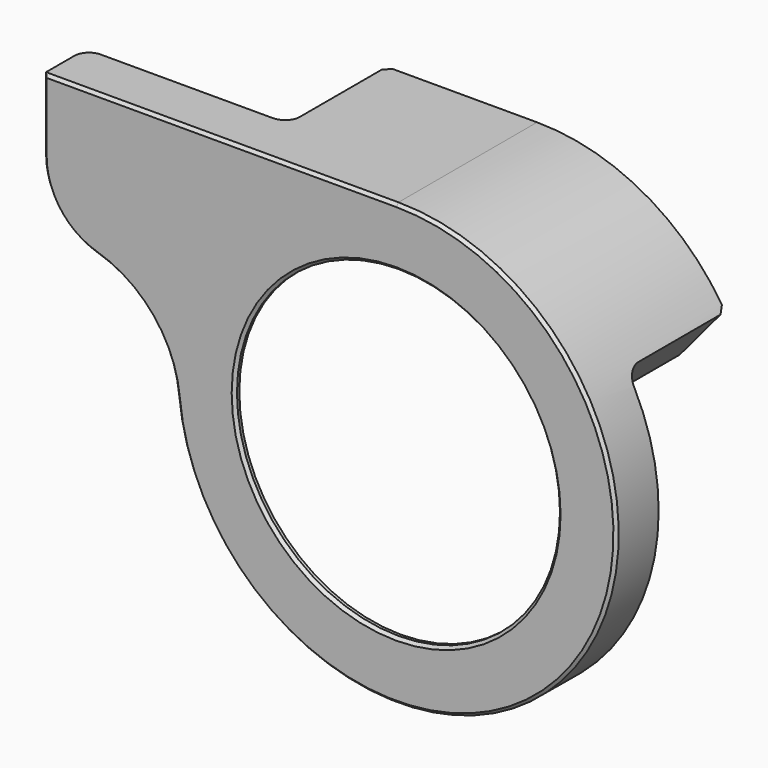
from build123d import *

# Parameters (mm, degrees)
SKETCH_R        = 55
PAD_DEPTH       = 40
PAD_DEPTH_BACK  = 20
POCKET_DEPTH    = 42
POCKET001_DEPTH = 16
SKETCH004_R     = 67.5
SKETCH004_R_2   = 58
POCKET002_DEPTH = 0.7
POCKET003_DEPTH = 0.7
SKETCH006_R     = 1.4
POCKET004_DEPTH = 35
SKETCH007_R     = 1.9
POCKET005_DEPTH = 20
FILLET_R        = 5
FILLET001_R     = 5
FILLET002_R     = 5
FILLET003_R     = 5
CHAMFER_SIZE    = 2
CHAMFER001_SIZE = 1


with BuildPart() as part:
    # Sketch → Pad (new body, two sides)
    with BuildSketch(Plane.XZ) as pad_sk:
        with BuildLine():
            Line((-120, 75), (0, 75))
            ThreePointArc((-74.66808, -7.048245), (55.468993, -50.479608), (0, 75))
            ThreePointArc((-74.66808, -7.048245), (-83.30852, 13.959176), (-102.203647, 26.566441))
            ThreePointArc((-120, 50.506104), (-115.063539, 35.591198), (-102.203647, 26.566441))
            Line((-120, 75), (-120, 50.506104))
        make_face()
        Circle(SKETCH_R, mode=Mode.SUBTRACT)
    extrude(amount=PAD_DEPTH)
    extrude(pad_sk.sketch, amount=-PAD_DEPTH_BACK)

    # Sketch001 (on Face7 of Pad) → Pocket (cut)
    with BuildSketch(Plane(origin=(0, 20, 0), x_dir=(1, 0, 0), z_dir=(0, 1, 0))):
        with BuildLine():
            Line((46.551104, -18.140074), (74.636799, -51.611301))
            ThreePointArc((74.636799, -51.611301), (27.033088, 86.623267), (-90.743475, 0))
            Line((-211.758942, -108.831918), (-90.743475, 0))
            Line((-62.856731, -108.831918), (-211.758942, -108.831918))
            Line((-42.167317, -48.745498), (-62.856731, -108.831918))
            Line((9.780971, -48.993879), (-42.167317, -48.745498))
            Line((46.551104, -18.140074), (9.780971, -48.993879))
        make_face()
    extrude(amount=-POCKET_DEPTH, mode=Mode.SUBTRACT)

    # Sketch003 (on Face2 of Pocket) → Pocket001 (cut)
    with BuildSketch(Plane(origin=(0, -22, 0), x_dir=(1, 0, 0), z_dir=(0, 1, 0))):
        with BuildLine():
            ThreePointArc((0, -70), (66.404243, -22.146705), (42.018147, 55.986385))
            Line((42.018147, 55.986385), (62.226624, 86.16832))
            Line((62.226624, 86.16832), (-170.809082, 86.16832))
            Line((-170.809082, 86.16832), (-170.809082, -70))
            Line((-170.809082, -70), (0, -70))
        make_face()
    extrude(amount=-POCKET001_DEPTH, mode=Mode.SUBTRACT)

    # Sketch004 → Pocket002 (cut)
    with BuildSketch(Plane(origin=(0, -38, 0), x_dir=(-1, 0, 0), z_dir=(0, 1, 0))):
        Circle(SKETCH004_R)
        Circle(SKETCH004_R_2, mode=Mode.SUBTRACT)
    extrude(amount=-POCKET002_DEPTH, mode=Mode.SUBTRACT)

    # Sketch005 (on Face14 of Pocket002) → Pocket003 (cut)
    with BuildSketch(Plane(origin=(0, -38, 0), x_dir=(1, 0, 0), z_dir=(0, 1, 0))):
        Polygon((-1.938341, -67.163612), (-28.325365, -52.55386), (-167.517487, -52.55386), (-166.878586, -67.163612), align=None)
        Polygon((12.572289, 63.526501), (-92.206108, 90.359993), (-139.164734, 46.595844), align=None)
    extrude(amount=-POCKET003_DEPTH, mode=Mode.SUBTRACT)

    # Sketch006 (on Face4 of Pocket003) → Pocket004 (cut)
    with BuildSketch(Plane(origin=(0, 20, 0), x_dir=(1, 0, 0), z_dir=(0, 1, 0))):
        with Locations((-38.002514, -53.753925)):
            Circle(SKETCH006_R)
        with Locations((-43.871658, -69.918114)):
            Circle(SKETCH006_R)
        with Locations((-1.248232, -65.011124)):
            Circle(SKETCH006_R)
        with Locations((26.37031, -58.932541)):
            Circle(SKETCH006_R)
        with Locations((50.759274, -31.119787)):
            Circle(SKETCH006_R)
        with Locations((57.686783, -39.586739)):
            Circle(SKETCH006_R)
    extrude(amount=-POCKET004_DEPTH, mode=Mode.SUBTRACT)

    # Sketch007 (on Face4 of Pocket004) → Pocket005 (cut)
    with BuildSketch(Plane(origin=(0, 20, 0), x_dir=(1, 0, 0), z_dir=(0, 1, 0))):
        with Locations((-38.002514, -53.753925)):
            Circle(SKETCH007_R)
        with Locations((-43.871658, -69.918114)):
            Circle(SKETCH007_R)
        with Locations((-1.248232, -65.011124)):
            Circle(SKETCH007_R)
        with Locations((26.37031, -58.932541)):
            Circle(SKETCH007_R)
        with Locations((50.759274, -31.119787)):
            Circle(SKETCH007_R)
        with Locations((57.686783, -39.586739)):
            Circle(SKETCH007_R)
    extrude(amount=-POCKET005_DEPTH, mode=Mode.SUBTRACT)

    # Fillet
    fillet_edges = [part.edges().sort_by_distance(p)[0] for p in [
        (-50.346648, -22, 72.5),
    ]]
    fillet(fillet_edges, radius=FILLET_R)

    # Fillet001
    fillet001_edges = [part.edges().sort_by_distance(p)[0] for p in [
        (-120, -22, 72.5),
    ]]
    fillet(fillet001_edges, radius=FILLET001_R)

    # Fillet002
    fillet002_edges = [part.edges().sort_by_distance(p)[0] for p in [
        (62.35606, -22, 36.975687),
    ]]
    fillet(fillet002_edges, radius=FILLET002_R)

    # Fillet003
    fillet003_edges = [part.edges().sort_by_distance(p)[0] for p in [
        (43.410932, -22, -58.066548),
        (43.410932, -38, -58.066548),
    ]]
    fillet(fillet003_edges, radius=FILLET003_R)

    # Chamfer
    chamfer_edges = [part.edges().sort_by_distance(p)[0] for p in [
        (-46.687392, 20, 61.872749),
        (57.127061, 20, 30.744008),
    ]]
    chamfer(chamfer_edges, length=CHAMFER_SIZE)

    # Chamfer001
    chamfer001_edges = [part.edges().sort_by_distance(p)[0] for p in [
        (-60, -40, 75),
        (55.468993, -40, -50.479608),
        (-83.30852, -40, 13.959176),
        (-115.063539, -40, 35.591198),
        (-120, -40, 62.753052),
        (-55, -40, 0),
    ]]
    chamfer(chamfer001_edges, length=CHAMFER001_SIZE)


solid = part.part
